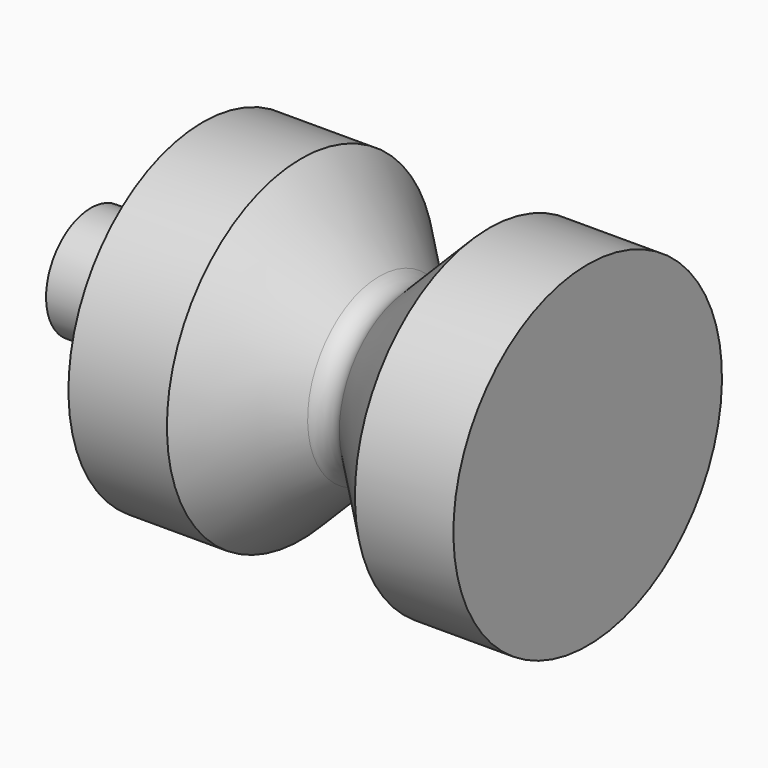
from build123d import *


with BuildPart() as f1:
    # F0 (on Front) → F1 (revolve)
    with BuildSketch(Plane.XZ):
        with BuildLine():
            Line((-31.406309, 0), (-3.212309, 0))
            Line((-3.212309, 0), (-3.212309, 9.525))
            Line((-3.212309, 9.525), (-8.800309, 9.525))
            Line((-8.800309, 9.525), (-13.236284, 5.089026))
            ThreePointArc((-13.236284, 5.089026), (-14.134309, 4.717051), (-15.032335, 5.089026))
            Line((-15.032335, 5.089026), (-19.468309, 9.525))
            Line((-19.468309, 9.525), (-25.056309, 9.525))
            Line((-25.056309, 9.525), (-25.056309, 3.175))
            Line((-25.056309, 3.175), (-31.406309, 3.175))
            Line((-31.406309, 3.175), (-31.406309, 0))
        make_face()
    revolve(axis=Axis((-44.154793, 0, 0), (1, 0, 0)))


solid = f1.part
